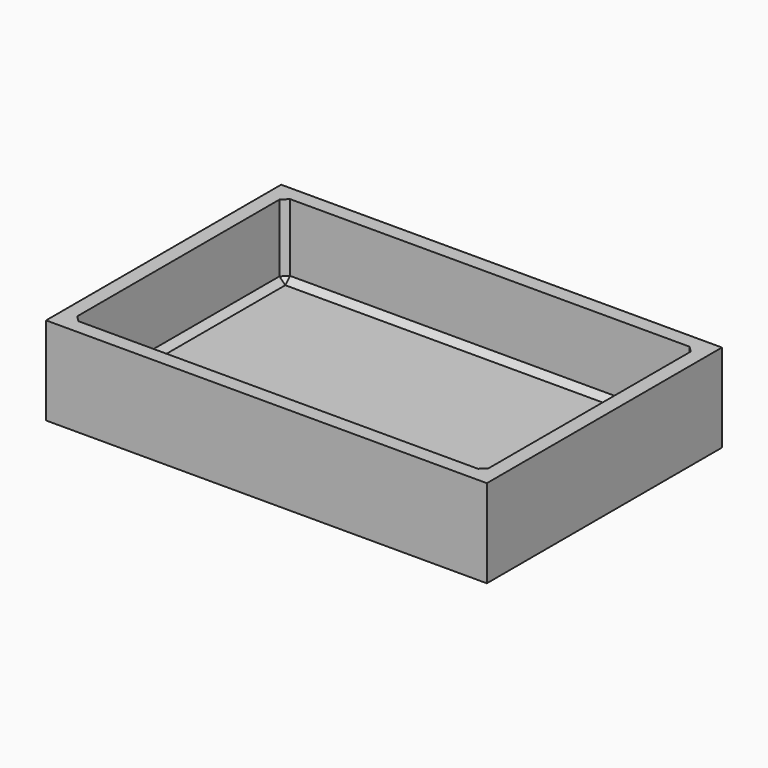
from build123d import *

# Parameters (mm, degrees)
F0_W     = 150
F0_H     = 100
F1_DEPTH = 30
F2_W     = 140
F2_H     = 90
F3_DEPTH = 25
F4_SIZE  = 2


with BuildPart() as f1:
    # F0 (on Top) → F1 (new body)
    with BuildSketch(Plane.XY):
        Rectangle(F0_W, F0_H)
    extrude(amount=F1_DEPTH)

    # F2 (on face) → F3 (cut)
    with BuildSketch(Plane.XY.offset(30)):
        Rectangle(F2_W, F2_H)
    extrude(amount=-F3_DEPTH, mode=Mode.SUBTRACT)

    # F4
    f4_edges = [f1.edges().sort_by_distance(p)[0] for p in [
        (-70, 0, 5),
        (0, -45, 5),
        (70, 0, 5),
        (0, 45, 5),
        (-70, 45, 17.5),
        (70, 45, 17.5),
        (70, -45, 17.5),
        (-70, -45, 17.5),
    ]]
    chamfer(f4_edges, length=F4_SIZE)


solid = f1.part
